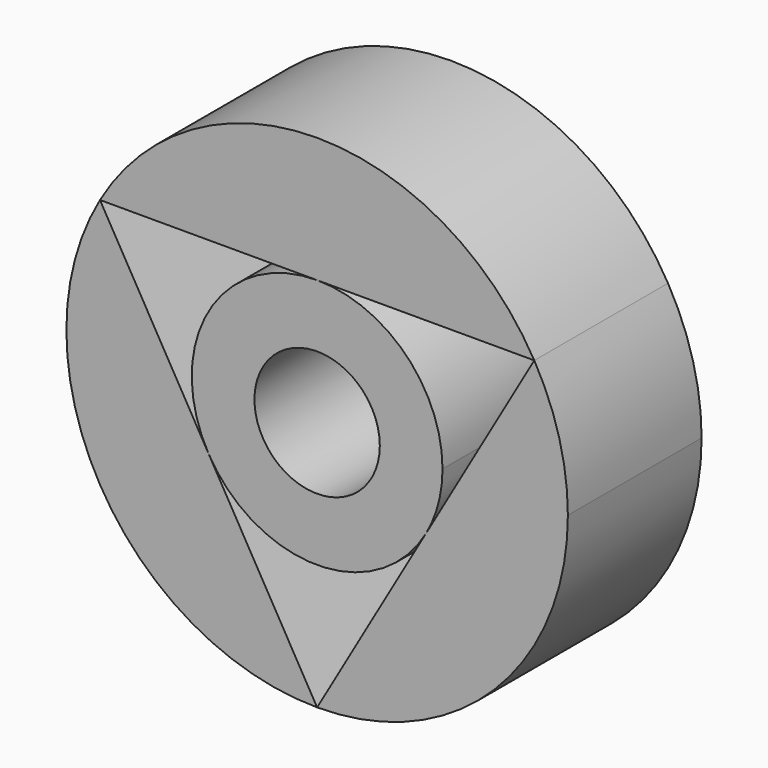
from build123d import *

# Parameters (mm, degrees)
F1_DEPTH = 4
F0_R     = 1.5


with BuildPart() as f1:
    # F0 (on Front) → F1 (new body)
    with BuildSketch(Plane.XZ):
        with BuildLine():
            Line((-5.1961524227, 3), (0, 3))
            Line((0, 3), (5.1961524227, 3))
            ThreePointArc((5.1961524227, 3), (0, 6), (-5.1961524227, 3))
        make_face()
    extrude(amount=F1_DEPTH)


with BuildPart() as f1b:
    # F0 (on Front) → F1, piece 2 (new body)
    with BuildSketch(Plane.XZ):
        with BuildLine():
            Line((5.1961524227, 3), (2.5980761941, -1.5000000299))
            Line((2.5980761941, -1.5000000299), (0, -6))
            ThreePointArc((0, -6), (4.2426406871, -4.2426406871), (6, 0))
            ThreePointArc((6, 0), (5.7955549577, 1.5529142706), (5.1961524227, 3))
        make_face()
    extrude(amount=F1_DEPTH)


with BuildPart() as f1c:
    # F0 (on Front) → F1, piece 3 (new body)
    with BuildSketch(Plane.XZ):
        with BuildLine():
            Line((0, -6), (-2.5980761936, -1.5000000308))
            Line((-2.5980761936, -1.5000000308), (-5.1961524227, 3))
            ThreePointArc((-5.1961524227, 3), (-5.1961524227, -3), (0, -6))
        make_face()
    extrude(amount=F1_DEPTH)


with BuildPart() as f1d:
    # F0 (on Front) → F1, piece 4 (new body)
    with BuildSketch(Plane.XZ):
        with BuildLine():
            ThreePointArc((2.5980761941, -1.5000000299), (2.8977774744, -0.776457152), (3, 0))
            ThreePointArc((3, 0), (2.1213203436, 2.1213203436), (0, 3))
            ThreePointArc((0, 3), (-2.5980762202, 1.4999999846), (-2.5980761936, -1.5000000308))
            ThreePointArc((-2.5980761936, -1.5000000308), (5e-10, -3), (2.5980761941, -1.5000000299))
        make_face()
        Circle(F0_R, mode=Mode.SUBTRACT)
    extrude(amount=F1_DEPTH)


solid = Compound([f1.part, f1b.part, f1c.part, f1d.part])
